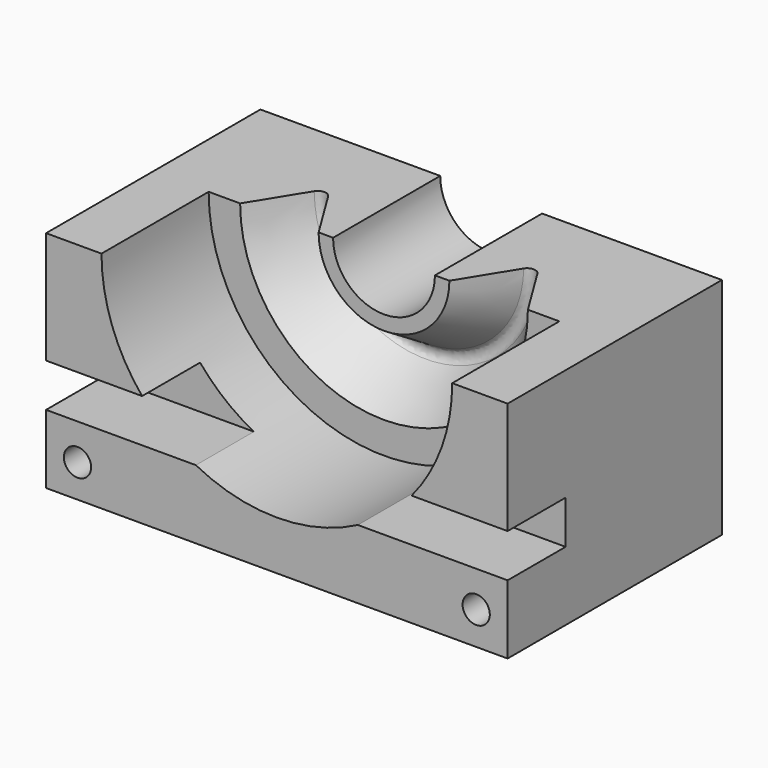
from build123d import *

# Parameters (mm, degrees)
F1_DEPTH = 25
F4_W     = 32.7306911349
F4_H     = 25
F6_R     = 1.524
F7_W     = 13.5347936116
F7_H     = 8.0888392404
F8_DEPTH = 86.1515196498
F9_W     = 9.5062525943
F9_H     = 25
F12_D    = 5.08


with BuildPart() as f1:
    # F0 (on Front) → F1 (new body, symmetric)
    with BuildSketch(Plane.XZ):
        Polygon((-43.0752597749, 41.8838150799), (-43.0752597749, 0), (0, 0), (43.0752597749, 0), (43.0752597749, 41.8838150799), align=None)
    extrude(amount=F1_DEPTH, both=True)

    # F2 (on face) → F3 (revolve, cut)
    with BuildSketch(Plane.XY.offset(41.8838150799)):
        Polygon((-19.5309855044, 11.865561828), (-26.8544312567, 0), (-12.2075397521, 0), align=None)
    revolve(axis=Axis((0, 0, 41.8838150799), (0, -1, 0)), mode=Mode.SUBTRACT)

    # F4 (on face) → F5 (revolve, cut)
    with BuildSketch(Plane.XY.offset(41.8838150799)):
        with Locations((-16.3653455675, -12.5)):
            Rectangle(F4_W, F4_H)
    revolve(axis=Axis((0, -12.5, 41.8838150799), (0, 1, 0)), mode=Mode.SUBTRACT)

    # F6
    f6_edges = [f1.edges().sort_by_distance(p)[0] for p in [
        (0, 11.865562, 22.35283),
    ]]
    fillet(f6_edges, radius=F6_R)

    # F7 (on face) → F8 (cut, through all)
    with BuildSketch(Plane.YZ.offset(43.0752597749)):
        with Locations((-18.2326031942, 16.8974879198)):
            Rectangle(F7_W, F7_H)
    extrude(amount=-F8_DEPTH, mode=Mode.SUBTRACT)

    # F9 (on face) → F10 (revolve, cut)
    with BuildSketch(Plane.XY.offset(41.8838150799)):
        with Locations((-4.7531262971, 12.5)):
            Rectangle(F9_W, F9_H)
    revolve(axis=Axis((0, 12.5, 41.8838150799), (0, -1, 0)), mode=Mode.SUBTRACT)

    # F12 (through all)
    with Locations(Plane.XZ.offset(25)):
        with Locations((-37.2096933424, 6.1405156739), (37.2096933424, 6.1405156739)):
            Hole(F12_D / 2)


solid = f1.part
